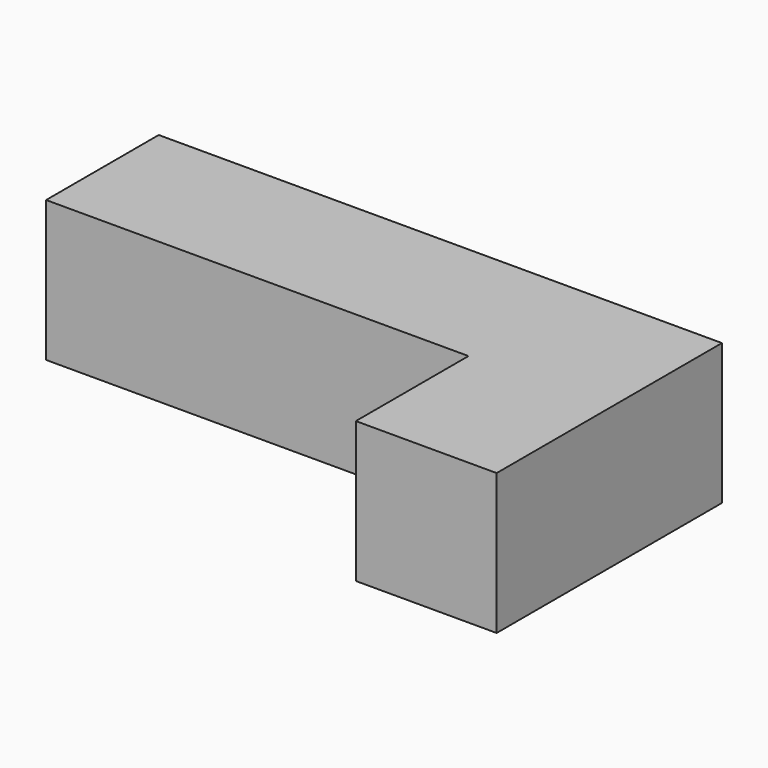
from build123d import *

# Parameters (mm, degrees)
BOX017_W                     = 10
BOX017_H                     = 10
BOX017_DEPTH                 = 10
BOX018_W                     = 10
BOX018_H                     = 10
BOX018_DEPTH                 = 10
BOX019_W                     = 10
BOX019_H                     = 10
BOX019_DEPTH                 = 10
BOX021_W                     = 10
BOX021_H                     = 10
BOX021_DEPTH                 = 10
BOX020_W                     = 10
BOX020_H                     = 10
BOX020_DEPTH                 = 10
FUSION002004_PLACEMENT_ANGLE = 180


with BuildPart() as cubo017:
    # Box017 → Box017 (new body)
    with BuildSketch(Plane(origin=(30, 0, 0), x_dir=(1, 0, 0), z_dir=(0, 0, 1))):
        with Locations((5, 5)):
            Rectangle(BOX017_W, BOX017_H)
    extrude(amount=BOX017_DEPTH)


with BuildPart() as cubo018:
    # Box018 → Box018 (new body)
    with BuildSketch(Plane(origin=(10, 0, 0), x_dir=(1, 0, 0), z_dir=(0, 0, 1))):
        with Locations((5, 5)):
            Rectangle(BOX018_W, BOX018_H)
    extrude(amount=BOX018_DEPTH)


with BuildPart() as cubo019:
    # Box019 → Box019 (new body)
    with BuildSketch(Plane(origin=(20, 0, 0), x_dir=(1, 0, 0), z_dir=(0, 0, 1))):
        with Locations((5, 5)):
            Rectangle(BOX019_W, BOX019_H)
    extrude(amount=BOX019_DEPTH)


with BuildPart() as cubo021:
    # Box021 → Box021 (new body)
    with BuildSketch(Plane(origin=(0, 10, 0), x_dir=(1, 0, 0), z_dir=(0, 0, 1))):
        with Locations((5, 5)):
            Rectangle(BOX021_W, BOX021_H)
    extrude(amount=BOX021_DEPTH)


with BuildPart() as fusion002004:
    # Box020 → Box020 (new body)
    with BuildSketch(Plane.XY):
        with Locations((5, 5)):
            Rectangle(BOX020_W, BOX020_H)
    extrude(amount=BOX020_DEPTH)

    # Fusion002004: union Cubo017, Cubo018, Cubo019, Cubo021
    add(cubo017.part)
    add(cubo018.part)
    add(cubo019.part)
    add(cubo021.part)


with BuildPart() as fusion002004_1:
    # Fusion002004 placement: moved
    add(fusion002004.part.moved(Location((40, 0, 0))).rotate(Axis((40, 0, 0), (0, 0, 1)), FUSION002004_PLACEMENT_ANGLE))


solid = fusion002004_1.part
